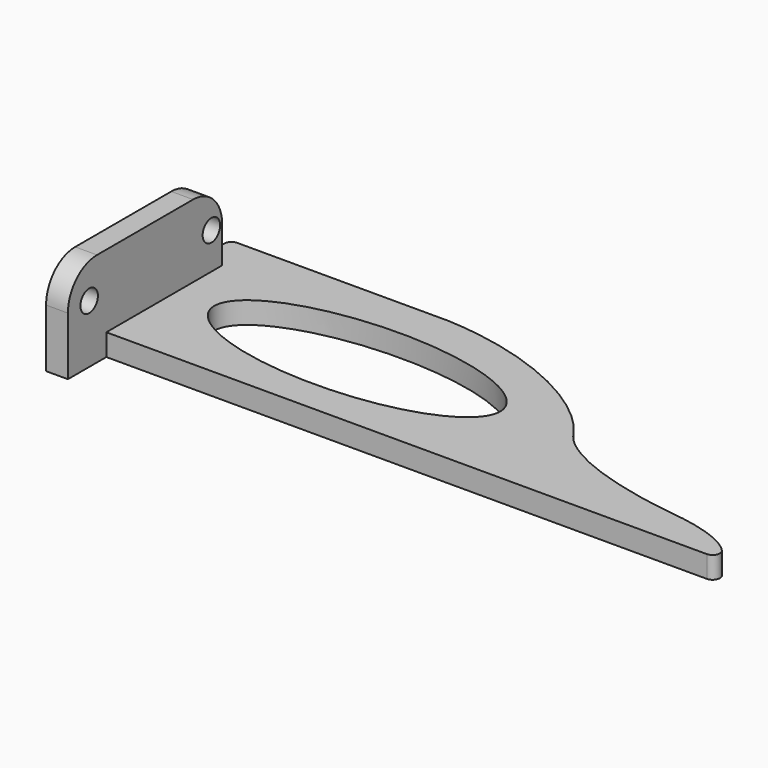
from build123d import *

# Parameters (mm, degrees)
PAD_DEPTH       = 3
PAD001_DEPTH    = 3
SKETCH002_R     = 1.5
POCKET_DEPTH    = 87.001
FILLET_R        = 5
FILLET001_R     = 1
FILLET002_R     = 1
POCKET001_DEPTH = 3.001


with BuildPart() as part:
    # Sketch → Pad (new body)
    with BuildSketch(Plane.XY):
        with BuildLine():
            add(Edge.make_bspline(
                [(51.853394, 25.571164), (55.204963, 19.874337), (71.483025, 17.693934)],
                knots=[0.193339, 0.193339, 0.193339, 1.192903, 1.192903, 1.192903], degree=2, weights=[1, 0.877687, 1]))
            add(Edge.make_bspline(
                [(82, 12.6), (82, 16.588853), (71.483025, 17.693934)],
                knots=[0, 0, 0, 1.290082, 1.290082, 1.290082], degree=2, weights=[1, 0.799075, 1]))
            Line((82, 12.6), (-5, 12.6))
            Line((-5, 12.6), (-5, 37.6))
            Line((-5, 37.6), (25, 37.6))
            add(Edge.make_bspline(
                [(51.853394, 25.571164), (43.781991, 36.749326), (25, 37.6)],
                knots=[0.559458, 0.559458, 0.559458, 1.875387, 1.875387, 1.875387], degree=2, weights=[1, 0.791239, 1]))
        make_face()
    extrude(amount=PAD_DEPTH)

    # Sketch001 (on Face4 of Pad) → Pad001 (join)
    with BuildSketch(Plane(origin=(-5, 0, 0), x_dir=(0, -1, 0), z_dir=(-1, 0, 0))):
        Polygon((-6, 13), (-32.5, 13), (-32.5, 3), (-12.6, 3), (-12.6, 0), (-6, 0), align=None)
    extrude(amount=-PAD001_DEPTH)

    # Sketch002 (on Face13 of Pad001) → Pocket (cut, through all)
    with BuildSketch(Plane(origin=(-5, 0, 0), x_dir=(0, -1, 0), z_dir=(-1, 0, 0))):
        with Locations((-30.65, 8)):
            Circle(SKETCH002_R)
        with Locations((-9.65, 8)):
            Circle(SKETCH002_R)
    extrude(amount=-POCKET_DEPTH, mode=Mode.SUBTRACT)

    # Fillet
    fillet_edges = [part.edges().sort_by_distance(p)[0] for p in [
        (-3.5, 6, 13),
        (-3.5, 32.5, 13),
    ]]
    fillet(fillet_edges, radius=FILLET_R)

    # Fillet001
    fillet001_edges = [part.edges().sort_by_distance(p)[0] for p in [
        (-5, 37.6, 1.5),
    ]]
    fillet(fillet001_edges, radius=FILLET001_R)

    # Fillet002
    fillet002_edges = [part.edges().sort_by_distance(p)[0] for p in [
        (82, 12.6, 1.5),
    ]]
    fillet(fillet002_edges, radius=FILLET002_R)

    # Sketch003 (on Face1 of Fillet002) → Pocket001 (cut, through all)
    with BuildSketch(Plane.XY.offset(3)):
        with BuildLine():
            add(Edge.make_bspline(
                [(42.509006, 24.626344), (42.509006, 37.629993), (13.041572, 31.128168), (-16.425863, 24.626344), (13.041572, 18.124519), (42.509006, 11.622694), (42.509006, 24.626344)],
                knots=[0, 0, 0, 2.094395, 2.094395, 4.18879, 4.18879, 6.283185, 6.283185, 6.283185], degree=2, weights=[1, 0.5, 1, 0.5, 1, 0.5, 1]))
        make_face()
    extrude(amount=-POCKET001_DEPTH, mode=Mode.SUBTRACT)


solid = part.part
